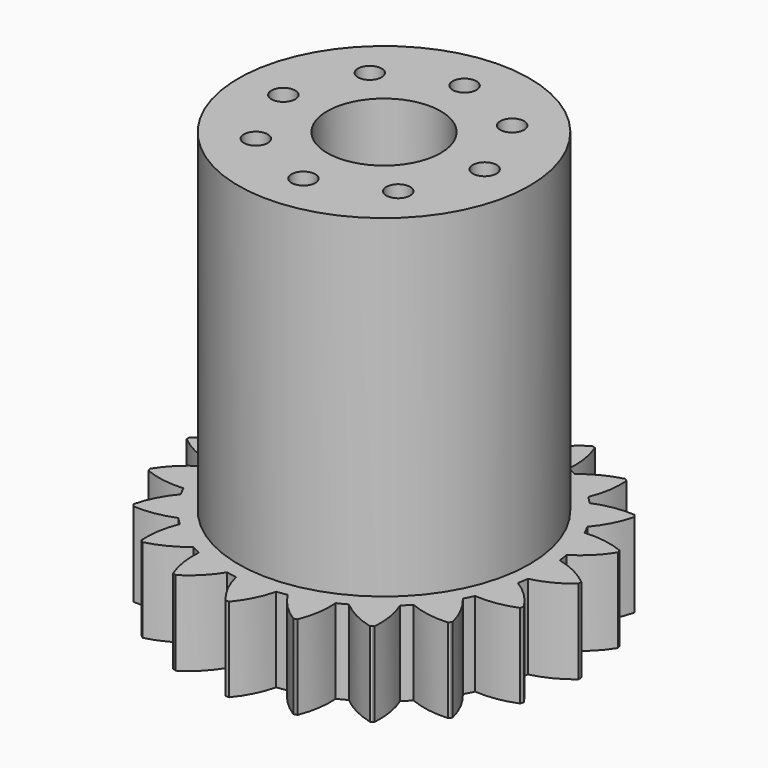
from build123d import *

# Parameters (mm, degrees)
F0_R     = 15.9
F0_R_2   = 6.2
F1_DEPTH = 45.6
F2_R     = 1.3
F3_DEPTH = 10
F4_R     = 17.6
F4_R_2   = 6.2
F5_DEPTH = 9.2
F7_DEPTH = 9.2


with BuildPart() as f1:
    # F0 (on Top) → F1 (new body)
    with BuildSketch(Plane.XY):
        Circle(F0_R)
        Circle(F0_R_2, mode=Mode.SUBTRACT)
    extrude(amount=F1_DEPTH)

    # F2 (on face) → F3 (cut)
    with BuildSketch(Plane.XY.offset(45.6)):
        with Locations((11, 0)):
            Circle(F2_R)
        with Locations((7.778175, 7.778175)):
            Circle(F2_R)
        with Locations((0, 11)):
            Circle(F2_R)
        with Locations((-7.778175, 7.778175)):
            Circle(F2_R)
        with Locations((-11, 0)):
            Circle(F2_R)
        with Locations((-7.778175, -7.778175)):
            Circle(F2_R)
        with Locations((0, -11)):
            Circle(F2_R)
        with Locations((7.778175, -7.778175)):
            Circle(F2_R)
    extrude(amount=-F3_DEPTH, mode=Mode.SUBTRACT)

    # F4 (on Top) → F5 (join)
    with BuildSketch(Plane.XY):
        Circle(F4_R)
        Circle(F4_R_2, mode=Mode.SUBTRACT)
    extrude(amount=F5_DEPTH)

    # F6 (on Top) → F7 (join)
    with BuildSketch(Plane.XY):
        with BuildLine():
            Line((21.4, -0.2), (21.4, 0))
            Line((21.4, 0), (17.4, 0))
            Line((17.4, 0), (17.4, -2.2))
            ThreePointArc((17.4, -2.2), (19.517602, -1.435204), (21.4, -0.2))
        make_face()
        with BuildLine():
            Line((17.4, 0), (21.4, 0))
            Line((21.4, 0), (21.4, 0.2))
            ThreePointArc((21.4, 0.2), (19.517602, 1.435204), (17.4, 2.2))
            Line((17.4, 2.2), (17.4, 0))
        make_face()
        with BuildLine():
            Line((20.352609, 6.612964), (16.548383, 5.376896))
            Line((16.548383, 5.376896), (17.228221, 3.284571))
            ThreePointArc((17.228221, 3.284571), (19.005845, 4.66631), (20.414413, 6.422752))
            Line((20.414413, 6.422752), (20.352609, 6.612964))
        make_face()
        with BuildLine():
            Line((15.868546, 7.46922), (16.548383, 5.376896))
            Line((16.548383, 5.376896), (20.352609, 6.612964))
            Line((20.352609, 6.612964), (20.290806, 6.803175))
            ThreePointArc((20.290806, 6.803175), (18.11884, 7.396231), (15.868546, 7.46922))
        make_face()
        with BuildLine():
            Line((17.312964, 12.578604), (14.076896, 10.227463))
            Line((14.076896, 10.227463), (15.370023, 8.447626))
            ThreePointArc((15.370023, 8.447626), (16.633664, 10.311054), (17.430521, 12.416801))
            Line((17.430521, 12.416801), (17.312964, 12.578604))
        make_face()
        with BuildLine():
            Line((12.783768, 12.007301), (14.076896, 10.227463))
            Line((14.076896, 10.227463), (17.312964, 12.578604))
            Line((17.312964, 12.578604), (17.195407, 12.740408))
            ThreePointArc((17.195407, 12.740408), (14.94648, 12.633264), (12.783768, 12.007301))
        make_face()
        with BuildLine():
            Line((12.578604, 17.312964), (10.227463, 14.076896))
            Line((10.227463, 14.076896), (12.007301, 12.783768))
            ThreePointArc((12.007301, 12.783768), (12.633264, 14.94648), (12.740408, 17.195407))
            Line((12.740408, 17.195407), (12.578604, 17.312964))
        make_face()
        with BuildLine():
            Line((8.447626, 15.370023), (10.227463, 14.076896))
            Line((10.227463, 14.076896), (12.578604, 17.312964))
            Line((12.578604, 17.312964), (12.416801, 17.430521))
            ThreePointArc((12.416801, 17.430521), (10.311054, 16.633664), (8.447626, 15.370023))
        make_face()
        with BuildLine():
            Line((6.612964, 20.352609), (5.376896, 16.548383))
            Line((5.376896, 16.548383), (7.46922, 15.868546))
            ThreePointArc((7.46922, 15.868546), (7.396231, 18.11884), (6.803175, 20.290806))
            Line((6.803175, 20.290806), (6.612964, 20.352609))
        make_face()
        with BuildLine():
            Line((3.284571, 17.228221), (5.376896, 16.548383))
            Line((5.376896, 16.548383), (6.612964, 20.352609))
            Line((6.612964, 20.352609), (6.422752, 20.414413))
            ThreePointArc((6.422752, 20.414413), (4.66631, 19.005845), (3.284571, 17.228221))
        make_face()
        with BuildLine():
            Line((0, 21.4), (0, 17.4))
            Line((0, 17.4), (2.2, 17.4))
            ThreePointArc((2.2, 17.4), (1.435204, 19.517602), (0.2, 21.4))
            Line((0.2, 21.4), (0, 21.4))
        make_face()
        with BuildLine():
            Line((-2.2, 17.4), (0, 17.4))
            Line((0, 17.4), (0, 21.4))
            Line((0, 21.4), (-0.2, 21.4))
            ThreePointArc((-0.2, 21.4), (-1.435204, 19.517602), (-2.2, 17.4))
        make_face()
        with BuildLine():
            Line((-6.612964, 20.352609), (-5.376896, 16.548383))
            Line((-5.376896, 16.548383), (-3.284571, 17.228221))
            ThreePointArc((-3.284571, 17.228221), (-4.66631, 19.005845), (-6.422752, 20.414413))
            Line((-6.422752, 20.414413), (-6.612964, 20.352609))
        make_face()
        with BuildLine():
            Line((-7.46922, 15.868546), (-5.376896, 16.548383))
            Line((-5.376896, 16.548383), (-6.612964, 20.352609))
            Line((-6.612964, 20.352609), (-6.803175, 20.290806))
            ThreePointArc((-6.803175, 20.290806), (-7.396231, 18.11884), (-7.46922, 15.868546))
        make_face()
        with BuildLine():
            Line((-12.578604, 17.312964), (-10.227463, 14.076896))
            Line((-10.227463, 14.076896), (-8.447626, 15.370023))
            ThreePointArc((-8.447626, 15.370023), (-10.311054, 16.633664), (-12.416801, 17.430521))
            Line((-12.416801, 17.430521), (-12.578604, 17.312964))
        make_face()
        with BuildLine():
            Line((-12.007301, 12.783768), (-10.227463, 14.076896))
            Line((-10.227463, 14.076896), (-12.578604, 17.312964))
            Line((-12.578604, 17.312964), (-12.740408, 17.195407))
            ThreePointArc((-12.740408, 17.195407), (-12.633264, 14.94648), (-12.007301, 12.783768))
        make_face()
        with BuildLine():
            Line((-17.312964, 12.578604), (-14.076896, 10.227463))
            Line((-14.076896, 10.227463), (-12.783768, 12.007301))
            ThreePointArc((-12.783768, 12.007301), (-14.94648, 12.633264), (-17.195407, 12.740408))
            Line((-17.195407, 12.740408), (-17.312964, 12.578604))
        make_face()
        with BuildLine():
            Line((-15.370023, 8.447626), (-14.076896, 10.227463))
            Line((-14.076896, 10.227463), (-17.312964, 12.578604))
            Line((-17.312964, 12.578604), (-17.430521, 12.416801))
            ThreePointArc((-17.430521, 12.416801), (-16.633664, 10.311054), (-15.370023, 8.447626))
        make_face()
        with BuildLine():
            Line((-20.352609, 6.612964), (-16.548383, 5.376896))
            Line((-16.548383, 5.376896), (-15.868546, 7.46922))
            ThreePointArc((-15.868546, 7.46922), (-18.11884, 7.396231), (-20.290806, 6.803175))
            Line((-20.290806, 6.803175), (-20.352609, 6.612964))
        make_face()
        with BuildLine():
            Line((-17.228221, 3.284571), (-16.548383, 5.376896))
            Line((-16.548383, 5.376896), (-20.352609, 6.612964))
            Line((-20.352609, 6.612964), (-20.414413, 6.422752))
            ThreePointArc((-20.414413, 6.422752), (-19.005845, 4.66631), (-17.228221, 3.284571))
        make_face()
        with BuildLine():
            Line((-21.4, 0), (-17.4, 0))
            Line((-17.4, 0), (-17.4, 2.2))
            ThreePointArc((-17.4, 2.2), (-19.517602, 1.435204), (-21.4, 0.2))
            Line((-21.4, 0.2), (-21.4, 0))
        make_face()
        with BuildLine():
            Line((-17.4, -2.2), (-17.4, 0))
            Line((-17.4, 0), (-21.4, 0))
            Line((-21.4, 0), (-21.4, -0.2))
            ThreePointArc((-21.4, -0.2), (-19.517602, -1.435204), (-17.4, -2.2))
        make_face()
        with BuildLine():
            Line((-20.352609, -6.612964), (-16.548383, -5.376896))
            Line((-16.548383, -5.376896), (-17.228221, -3.284571))
            ThreePointArc((-17.228221, -3.284571), (-19.005845, -4.66631), (-20.414413, -6.422752))
            Line((-20.414413, -6.422752), (-20.352609, -6.612964))
        make_face()
        with BuildLine():
            Line((-15.868546, -7.46922), (-16.548383, -5.376896))
            Line((-16.548383, -5.376896), (-20.352609, -6.612964))
            Line((-20.352609, -6.612964), (-20.290806, -6.803175))
            ThreePointArc((-20.290806, -6.803175), (-18.11884, -7.396231), (-15.868546, -7.46922))
        make_face()
        with BuildLine():
            Line((-17.312964, -12.578604), (-14.076896, -10.227463))
            Line((-14.076896, -10.227463), (-15.370023, -8.447626))
            ThreePointArc((-15.370023, -8.447626), (-16.633664, -10.311054), (-17.430521, -12.416801))
            Line((-17.430521, -12.416801), (-17.312964, -12.578604))
        make_face()
        with BuildLine():
            Line((-12.783768, -12.007301), (-14.076896, -10.227463))
            Line((-14.076896, -10.227463), (-17.312964, -12.578604))
            Line((-17.312964, -12.578604), (-17.195407, -12.740408))
            ThreePointArc((-17.195407, -12.740408), (-14.94648, -12.633264), (-12.783768, -12.007301))
        make_face()
        with BuildLine():
            Line((-12.578604, -17.312964), (-10.227463, -14.076896))
            Line((-10.227463, -14.076896), (-12.007301, -12.783768))
            ThreePointArc((-12.007301, -12.783768), (-12.633264, -14.94648), (-12.740408, -17.195407))
            Line((-12.740408, -17.195407), (-12.578604, -17.312964))
        make_face()
        with BuildLine():
            Line((-8.447626, -15.370023), (-10.227463, -14.076896))
            Line((-10.227463, -14.076896), (-12.578604, -17.312964))
            Line((-12.578604, -17.312964), (-12.416801, -17.430521))
            ThreePointArc((-12.416801, -17.430521), (-10.311054, -16.633664), (-8.447626, -15.370023))
        make_face()
        with BuildLine():
            Line((-6.612964, -20.352609), (-5.376896, -16.548383))
            Line((-5.376896, -16.548383), (-7.46922, -15.868546))
            ThreePointArc((-7.46922, -15.868546), (-7.396231, -18.11884), (-6.803175, -20.290806))
            Line((-6.803175, -20.290806), (-6.612964, -20.352609))
        make_face()
        with BuildLine():
            Line((-3.284571, -17.228221), (-5.376896, -16.548383))
            Line((-5.376896, -16.548383), (-6.612964, -20.352609))
            Line((-6.612964, -20.352609), (-6.422752, -20.414413))
            ThreePointArc((-6.422752, -20.414413), (-4.66631, -19.005845), (-3.284571, -17.228221))
        make_face()
        with BuildLine():
            Line((0, -21.4), (0, -17.4))
            Line((0, -17.4), (-2.2, -17.4))
            ThreePointArc((-2.2, -17.4), (-1.435204, -19.517602), (-0.2, -21.4))
            Line((-0.2, -21.4), (0, -21.4))
        make_face()
        with BuildLine():
            Line((2.2, -17.4), (0, -17.4))
            Line((0, -17.4), (0, -21.4))
            Line((0, -21.4), (0.2, -21.4))
            ThreePointArc((0.2, -21.4), (1.435204, -19.517602), (2.2, -17.4))
        make_face()
        with BuildLine():
            Line((6.612964, -20.352609), (5.376896, -16.548383))
            Line((5.376896, -16.548383), (3.284571, -17.228221))
            ThreePointArc((3.284571, -17.228221), (4.66631, -19.005845), (6.422752, -20.414413))
            Line((6.422752, -20.414413), (6.612964, -20.352609))
        make_face()
        with BuildLine():
            Line((7.46922, -15.868546), (5.376896, -16.548383))
            Line((5.376896, -16.548383), (6.612964, -20.352609))
            Line((6.612964, -20.352609), (6.803175, -20.290806))
            ThreePointArc((6.803175, -20.290806), (7.396231, -18.11884), (7.46922, -15.868546))
        make_face()
        with BuildLine():
            Line((12.578604, -17.312964), (10.227463, -14.076896))
            Line((10.227463, -14.076896), (8.447626, -15.370023))
            ThreePointArc((8.447626, -15.370023), (10.311054, -16.633664), (12.416801, -17.430521))
            Line((12.416801, -17.430521), (12.578604, -17.312964))
        make_face()
        with BuildLine():
            Line((12.007301, -12.783768), (10.227463, -14.076896))
            Line((10.227463, -14.076896), (12.578604, -17.312964))
            Line((12.578604, -17.312964), (12.740408, -17.195407))
            ThreePointArc((12.740408, -17.195407), (12.633264, -14.94648), (12.007301, -12.783768))
        make_face()
        with BuildLine():
            Line((17.312964, -12.578604), (14.076896, -10.227463))
            Line((14.076896, -10.227463), (12.783768, -12.007301))
            ThreePointArc((12.783768, -12.007301), (14.94648, -12.633264), (17.195407, -12.740408))
            Line((17.195407, -12.740408), (17.312964, -12.578604))
        make_face()
        with BuildLine():
            Line((15.370023, -8.447626), (14.076896, -10.227463))
            Line((14.076896, -10.227463), (17.312964, -12.578604))
            Line((17.312964, -12.578604), (17.430521, -12.416801))
            ThreePointArc((17.430521, -12.416801), (16.633664, -10.311054), (15.370023, -8.447626))
        make_face()
        with BuildLine():
            Line((20.352609, -6.612964), (16.548383, -5.376896))
            Line((16.548383, -5.376896), (15.868546, -7.46922))
            ThreePointArc((15.868546, -7.46922), (18.11884, -7.396231), (20.290806, -6.803175))
            Line((20.290806, -6.803175), (20.352609, -6.612964))
        make_face()
        with BuildLine():
            Line((17.228221, -3.284571), (16.548383, -5.376896))
            Line((16.548383, -5.376896), (20.352609, -6.612964))
            Line((20.352609, -6.612964), (20.414413, -6.422752))
            ThreePointArc((20.414413, -6.422752), (19.005845, -4.66631), (17.228221, -3.284571))
        make_face()
    extrude(amount=F7_DEPTH)


solid = f1.part
